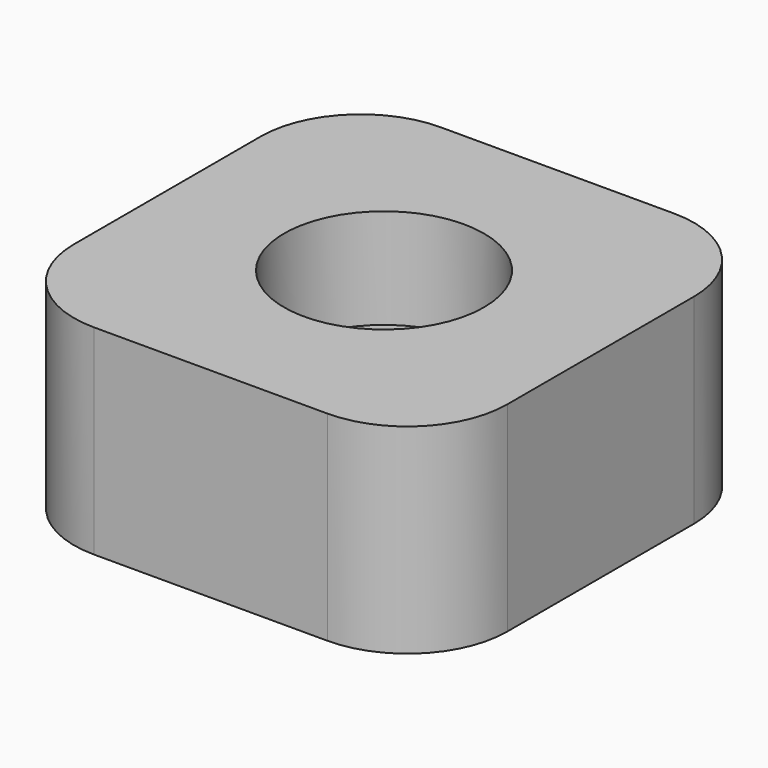
from build123d import *

# Parameters (mm, degrees)
F1_DEPTH = 12
F2_R     = 6
F3_DEPTH = 6
F4_R     = 2.5
F5_DEPTH = 31.5


with BuildPart() as f1:
    # F0 (on Top) → F1 (new body)
    with BuildSketch(Plane.XY):
        with BuildLine():
            Line((-7, -13), (7, -13))
            ThreePointArc((7, -13), (11.242641, -11.242641), (13, -7))
            Line((13, -7), (13, 7))
            ThreePointArc((13, 7), (11.242641, 11.242641), (7, 13))
            Line((7, 13), (-7, 13))
            ThreePointArc((-7, 13), (-11.242641, 11.242641), (-13, 7))
            Line((-13, 7), (-13, -7))
            ThreePointArc((-13, -7), (-11.242641, -11.242641), (-7, -13))
        make_face()
    extrude(amount=F1_DEPTH)

    # F2 (on face) → F3 (cut)
    with BuildSketch(Plane.XY.offset(12)):
        Circle(F2_R)
    extrude(amount=-F3_DEPTH, mode=Mode.SUBTRACT)

    # F4 (on face) → F5 (cut)
    with BuildSketch(Plane.XY.offset(6)):
        Circle(F4_R)
    extrude(amount=-F5_DEPTH, mode=Mode.SUBTRACT)


solid = f1.part
